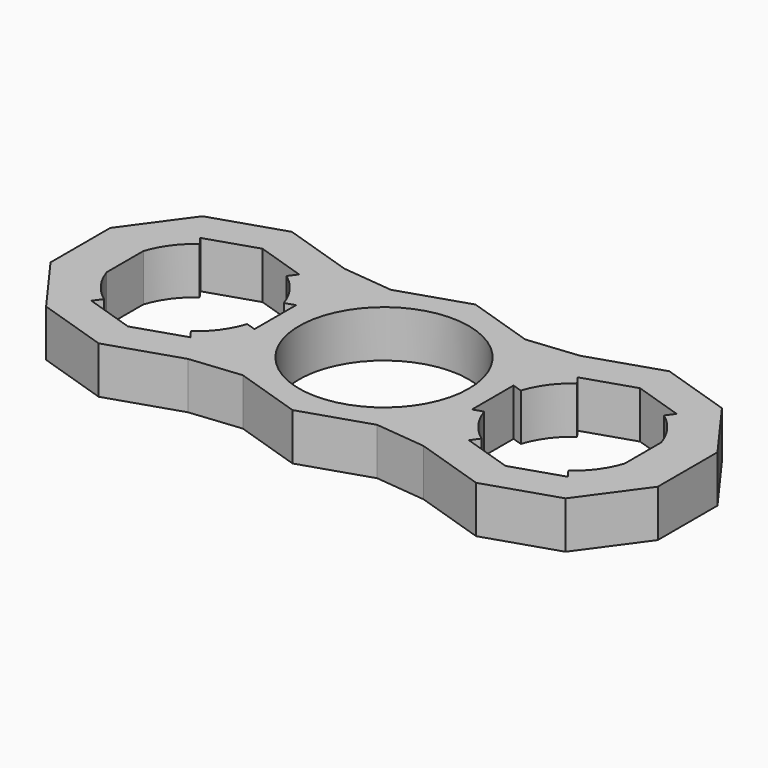
from build123d import *

# Parameters (mm, degrees)
F0_R     = 12.6365
F1_DEPTH = 7


with BuildPart() as f1:
    # F0 (on Top) → F1 (new body)
    with BuildSketch(Plane.XY):
        Polygon((-52.825726, -42.302836), (-42.818159, -39.05118), (-35.291308, -39.829309), (-24.718397, -43.264655), (-14.145487, -39.829309), (-7.611069, -30.835454), (-7.611069, -19.718438), (-14.145487, -10.724583), (-24.718397, -7.289236), (-35.291308, -10.724583), (-42.818159, -11.502712), (-52.825726, -8.251056), (-62.833293, -11.502712), (-70.360144, -10.724583), (-80.933054, -7.289236), (-91.505964, -10.724583), (-98.040382, -19.718438), (-98.040382, -30.835454), (-91.505964, -39.829309), (-80.933054, -43.264655), (-70.360144, -39.829309), (-62.833293, -39.05118), align=None)
        with BuildLine():
            Line((-74.467416, -34.176133), (-73.569337, -35.412233))
            Line((-73.569337, -35.412233), (-80.933054, -37.80485))
            Line((-80.933054, -37.80485), (-88.296771, -35.412233))
            Line((-88.296771, -35.412233), (-87.398692, -34.176133))
            ThreePointArc((-87.398692, -34.176133), (-89.832241, -31.742584), (-91.394676, -28.676133))
            Line((-91.394676, -28.676133), (-91.394676, -21.877759))
            ThreePointArc((-91.394676, -21.877759), (-89.832241, -18.811308), (-87.398692, -16.377759))
            Line((-87.398692, -16.377759), (-88.296771, -15.141658))
            Line((-88.296771, -15.141658), (-80.933054, -12.749042))
            Line((-80.933054, -12.749042), (-73.569337, -15.141658))
            Line((-73.569337, -15.141658), (-74.467416, -16.377759))
            ThreePointArc((-74.467416, -16.377759), (-72.033867, -18.811308), (-70.471432, -21.877759))
            Line((-70.471432, -21.877759), (-69.018309, -21.405611))
            Line((-69.018309, -21.405611), (-69.018309, -29.148281))
            Line((-69.018309, -29.148281), (-70.471432, -28.676133))
            ThreePointArc((-70.471432, -28.676133), (-72.033867, -31.742584), (-74.467416, -34.176133))
        make_face(mode=Mode.SUBTRACT)
        with BuildLine():
            Line((-31.184035, -16.377759), (-32.082115, -15.141658))
            Line((-32.082115, -15.141658), (-24.718397, -12.749042))
            Line((-24.718397, -12.749042), (-17.35468, -15.141658))
            Line((-17.35468, -15.141658), (-18.25276, -16.377759))
            ThreePointArc((-18.25276, -16.377759), (-15.81921, -18.811308), (-14.256776, -21.877759))
            Line((-14.256776, -21.877759), (-14.256776, -28.676133))
            ThreePointArc((-14.256776, -28.676133), (-15.81921, -31.742584), (-18.25276, -34.176133))
            Line((-18.25276, -34.176133), (-17.35468, -35.412233))
            Line((-17.35468, -35.412233), (-24.718397, -37.80485))
            Line((-24.718397, -37.80485), (-32.082115, -35.412233))
            Line((-32.082115, -35.412233), (-31.184035, -34.176133))
            ThreePointArc((-31.184035, -34.176133), (-33.617584, -31.742584), (-35.180019, -28.676133))
            Line((-35.180019, -28.676133), (-36.633142, -29.148281))
            Line((-36.633142, -29.148281), (-36.633142, -21.405611))
            Line((-36.633142, -21.405611), (-35.180019, -21.877759))
            ThreePointArc((-35.180019, -21.877759), (-33.617584, -18.811308), (-31.184035, -16.377759))
        make_face(mode=Mode.SUBTRACT)
        with Locations((-52.825726, -25.276946)):
            Circle(F0_R, mode=Mode.SUBTRACT)
    extrude(amount=F1_DEPTH)


solid = f1.part
